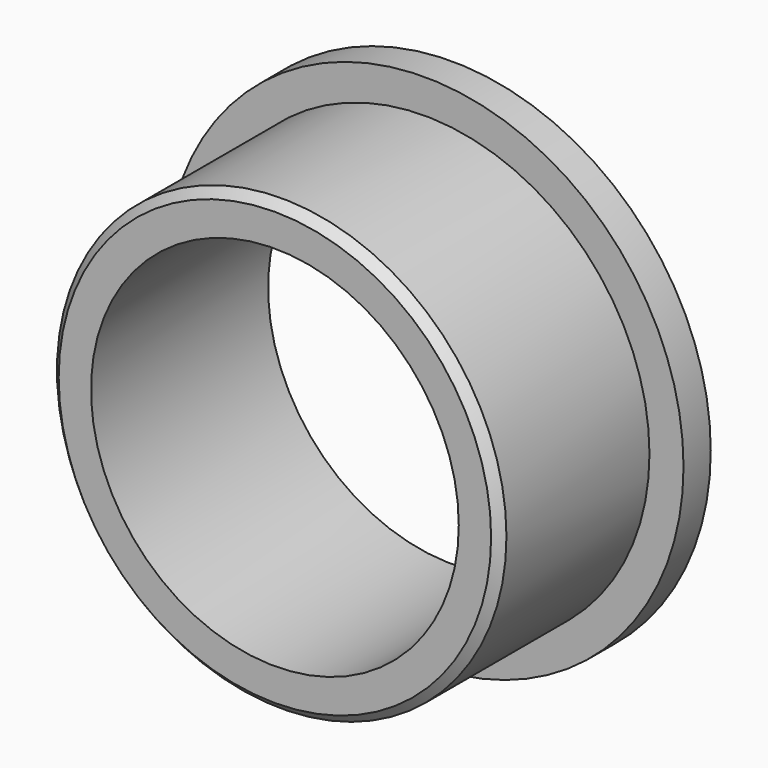
from build123d import *

# Parameters (mm, degrees)
F2_SIZE = 0.5


with BuildPart() as f1:
    # F0 (on Top) → F1 (revolve)
    with BuildSketch(Plane.XY):
        Polygon((15.2, 0), (10.8, 0), (10.8, -13), (13.2, -13), (13.2, -2), (15.2, -2), align=None)
    revolve(axis=Axis((0, -6.5, 0), (0, -1, 0)))

    # F2
    f2_edges = [f1.edges().sort_by_distance(p)[0] for p in [
        (-13.2, -13, 0),
    ]]
    chamfer(f2_edges, length=F2_SIZE)


solid = f1.part
